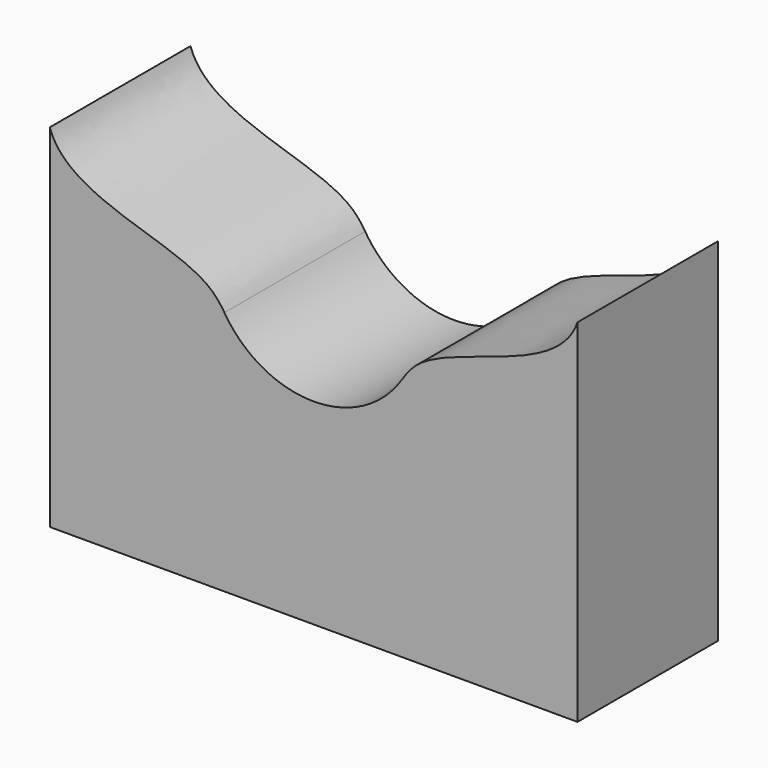
from build123d import *

# Parameters (mm, degrees)
F1_DEPTH = 50
F2_R     = 30


with BuildPart() as f1:
    # F0 (on Front) → F1 (new body)
    with BuildSketch(Plane.XZ):
        with BuildLine():
            Line((-75, -50), (0, -50))
            Line((0, -50), (75, -50))
            Line((75, -50), (75, 50))
            add(Edge.make_bspline(
                [(75, 50), (69.8125096925, 34.526334048), (15.799135177, 32.2677367389), (24.5355032384, 5.1132943481), (0, 0)],
                knots=[0, 0, 0, 0, 0.5344805116, 1, 1, 1, 1], degree=3))
            add(Edge.make_bspline(
                [(-75, 50), (-69.8125096925, 34.526334048), (-15.799135177, 32.2677367389), (-24.5355032384, 5.1132943481), (0, 0)],
                knots=[0, 0, 0, 0, 0.5344805116, 1, 1, 1, 1], degree=3))
            Line((-75, 50), (-75, -50))
        make_face()
    extrude(amount=F1_DEPTH)

    # F2
    f2_edges = [f1.edges().sort_by_distance(p)[0] for p in [
        (0, -25, 0),
    ]]
    fillet(f2_edges, radius=F2_R)


solid = f1.part
